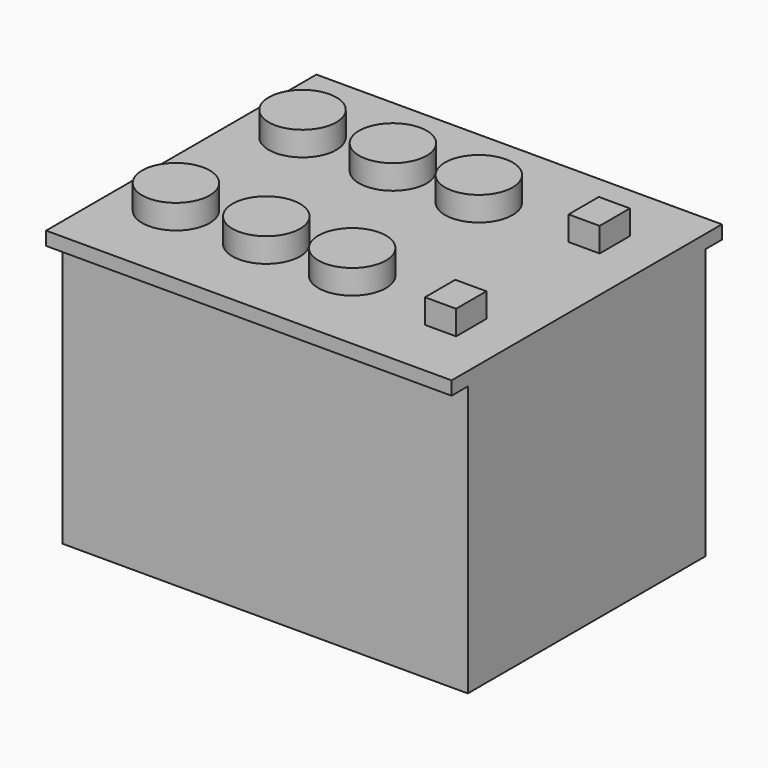
from build123d import *

# Parameters (mm, degrees)
F0_W     = 300
F0_H     = 200
F1_DEPTH = 110
F2_W     = 300
F2_H     = 250
F3_DEPTH = 10
F4_R     = 25
F4_W     = 23
F4_H     = 28
F5_DEPTH = 18


with BuildPart() as f1:
    # F0 (on Front) → F1 (new body, symmetric)
    with BuildSketch(Plane.XZ):
        Rectangle(F0_W, F0_H)
    extrude(amount=F1_DEPTH, both=True)

    # F2 (on face) → F3 (join)
    with BuildSketch(Plane.XY.offset(100)):
        Rectangle(F2_W, F2_H)
    extrude(amount=F3_DEPTH)

    # F4 (on face) → F5 (join)
    with BuildSketch(Plane.XY.offset(110)):
        with Locations((-107.0935577154, 58.547321707)):
            Circle(F4_R)
        with Locations((-40.2627661824, 58.547321707)):
            Circle(F4_R)
        with Locations((23.3044344932, 58.547321707)):
            Circle(F4_R)
        with Locations((-107.0935577154, -58.547321707)):
            Circle(F4_R)
        with Locations((-40.2627661824, -58.547321707)):
            Circle(F4_R)
        with Locations((23.3044344932, -58.547321707)):
            Circle(F4_R)
        with Locations((106.136246562, 66.3863844573)):
            Rectangle(F4_W, F4_H)
        with Locations((106.136246562, -66.3863844573)):
            Rectangle(F4_W, F4_H)
    extrude(amount=F5_DEPTH)


solid = f1.part
